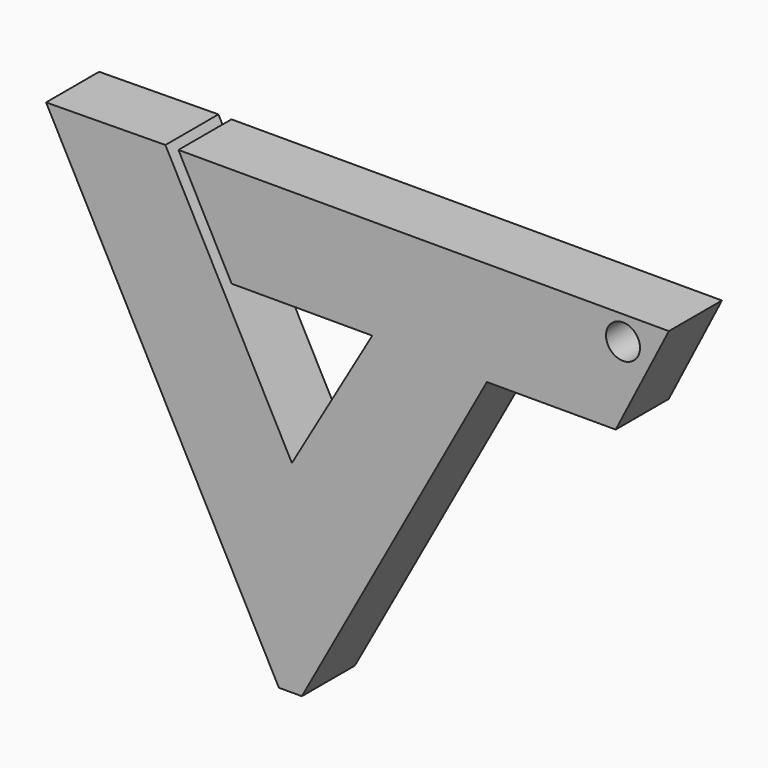
from build123d import *

# Parameters (mm, degrees)
F1_DEPTH = 12.7
F2_R     = 3.254068
F3_DEPTH = 12.701


with BuildPart() as f1:
    # F0 (on Front) → F1 (new body)
    with BuildSketch(Plane.XZ):
        Polygon((-26.135963, 56.065113), (-48.990875, 55.815339), (-4.400152, -28.386429), (0, -28.386429), (35.437245, 36.122989), (60.109265, 36.122989), (70.294961, 56.041688), (-23.639806, 56.041688), (-13.454107, 36.802039), (13.481406, 36.802039), (-1.910316, 10.319223), align=None)
    extrude(amount=F1_DEPTH)

    # F2 (on face) → F3 (cut, through all)
    with BuildSketch(Plane.XZ.offset(12.7)):
        with Locations((61.512932, 51.409215)):
            Circle(F2_R)
    extrude(amount=-F3_DEPTH, mode=Mode.SUBTRACT)


solid = f1.part
